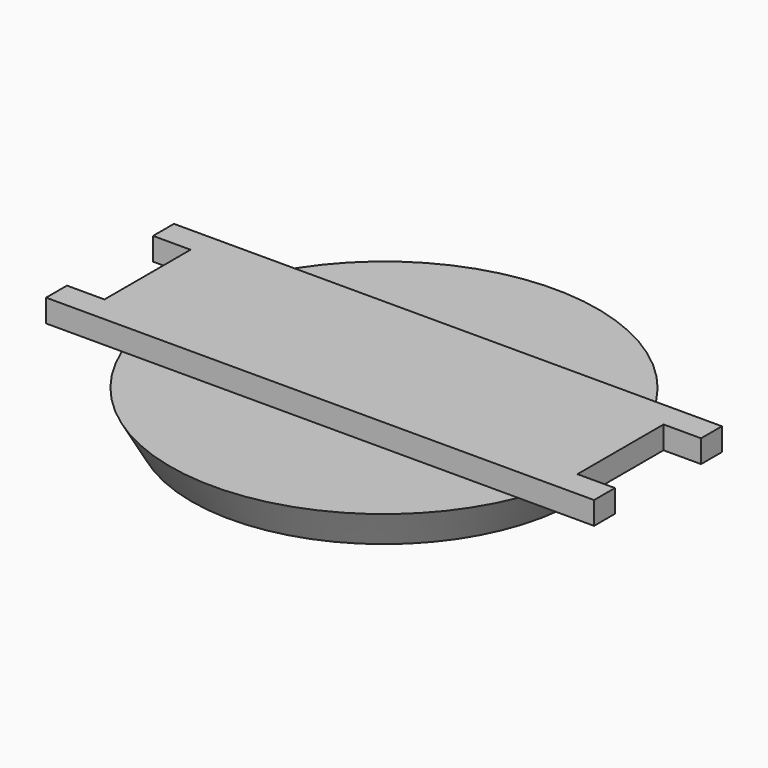
from build123d import *

# Parameters (mm, degrees)
F3_DEPTH = 3


with BuildPart() as f1:
    # F0 (on Front) → F1 (revolve)
    with BuildSketch(Plane.XZ):
        Polygon((28.186478, 0), (0, 0), (0, -4.948771), (25.389344, -4.948771), align=None)
    revolve(axis=Axis((0, 0, -2.474385), (0, 0, 1)))

    # F2 (on Top) → F3 (join)
    with BuildSketch(Plane.XY):
        Polygon((-36.147542, -7.10041), (-36.147542, -10.543033), (0, -10.543033), (36.147542, -10.543033), (36.147542, -7.10041), (31.198772, -7.10041), (31.198772, 0), (31.198772, 7.10041), (36.147542, 7.10041), (36.147542, 10.543033), (0, 10.543033), (-36.147542, 10.543033), (-36.147542, 7.10041), (-31.198772, 7.10041), (-31.198772, 0), (-31.198772, -7.10041), align=None)
    extrude(amount=F3_DEPTH)


solid = f1.part
